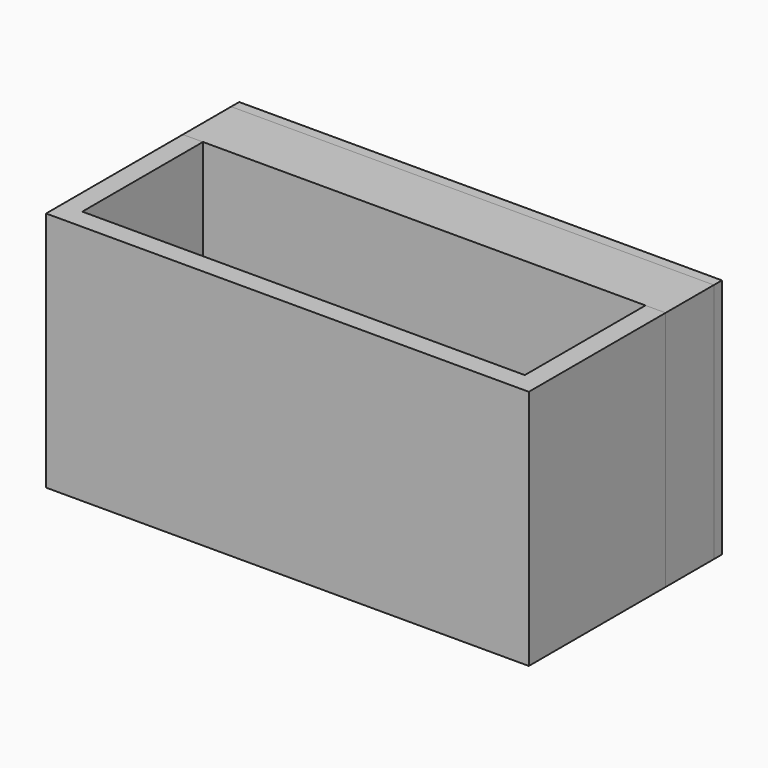
from build123d import *

# Parameters (mm, degrees)
F0_W     = 152.4
F0_H     = 76.2
F1_DEPTH = 76.2
F2_W     = 152.4
F2_H     = 76.2
F3_DEPTH = 22.225
F4_T     = -6.35
F5_T     = -6.35
F6_DEPTH = 3.175


with BuildPart() as f1:
    # F0 (on Front) → F1 (new body)
    with BuildSketch(Plane.XZ):
        Rectangle(F0_W, F0_H)
    extrude(amount=F1_DEPTH)

    # F4
    f4_openings = [f1.faces().sort_by_distance(p)[0] for p in [
        (0, -38.1, 38.1),
    ]]
    offset(amount=F4_T, openings=f4_openings)


with BuildPart() as f3:
    # F2 (on Front) → F3 (new body)
    with BuildSketch(Plane.XZ):
        Rectangle(F2_W, F2_H)
    extrude(amount=F3_DEPTH)

    # F5
    f5_openings = [f3.faces().sort_by_distance(p)[0] for p in [
        (0, 0, 0),
    ]]
    offset(amount=F5_T, openings=f5_openings)


with BuildPart() as f6:
    # F0 (on Front) → F6 (new body)
    with BuildSketch(Plane.XZ):
        Rectangle(F0_W, F0_H)
    extrude(amount=F6_DEPTH)


solid = Compound([f1.part, f3.part, f6.part])
